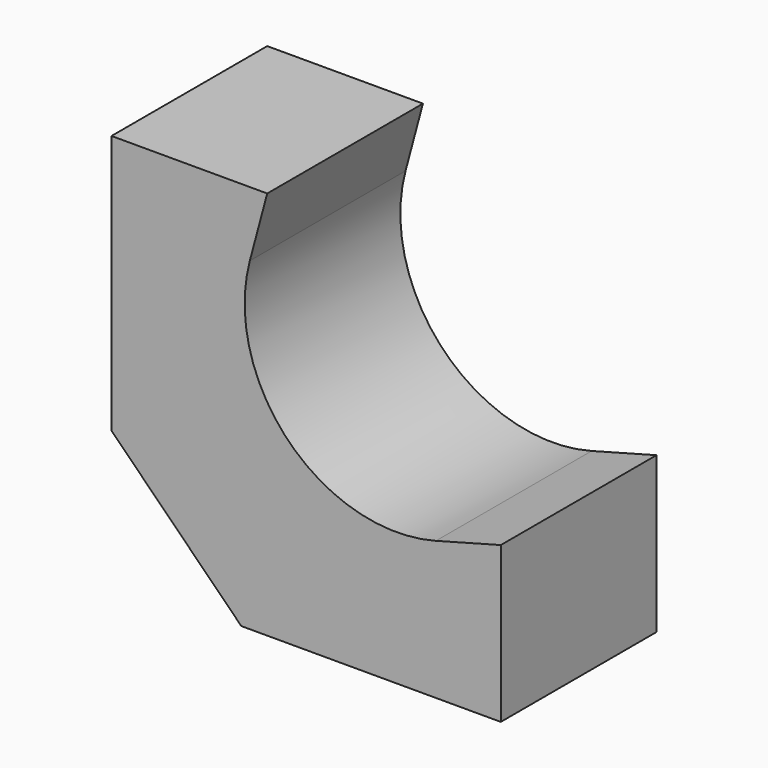
from build123d import *

# Parameters (mm, degrees)
F1_DEPTH = 7.5


with BuildPart() as f1:
    # F0 (on Front) → F1 (new body, symmetric)
    with BuildSketch(Plane.XZ):
        with BuildLine():
            Line((12, 30), (0, 30))
            Line((0, 30), (0, 10))
            Line((0, 10), (10, 0))
            Line((10, 0), (30, 0))
            Line((30, 0), (30, 12))
            Line((30, 12), (25, 10.660254))
            ThreePointArc((25, 10.660254), (13.690599, 13.690599), (10.660254, 25))
            Line((10.660254, 25), (12, 30))
        make_face()
    extrude(amount=F1_DEPTH, both=True)


solid = f1.part
